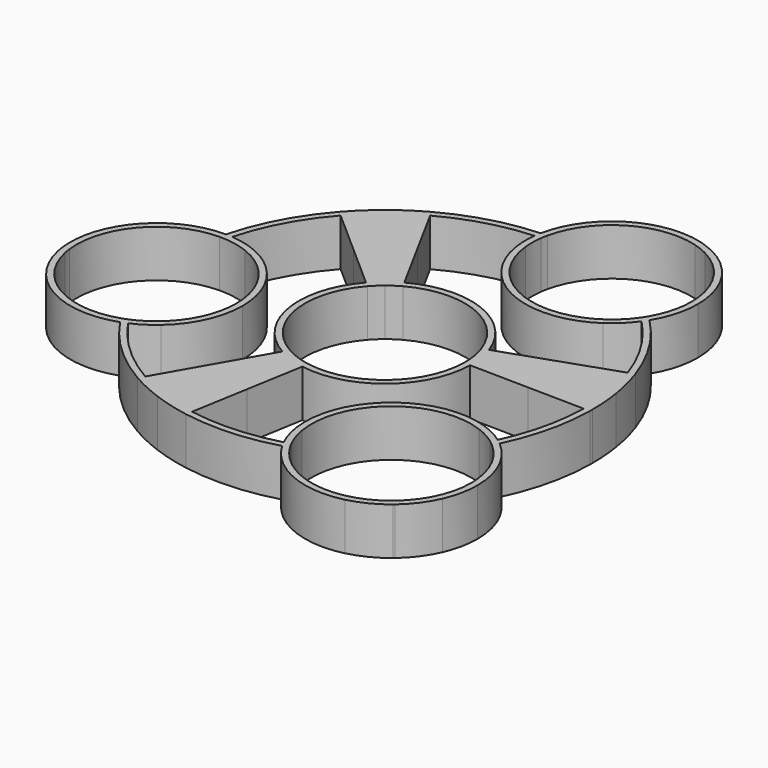
from build123d import *

# Parameters (mm, degrees)
F1_DEPTH = 6.5


with BuildPart() as f1:
    # F0 (on Top) → F1 (new body)
    with BuildSketch(Plane.XY):
        with BuildLine():
            ThreePointArc((-26.781073475, 7.1703144427), (-24.4309789451, 13.1059747239), (-20.7854982474, 18.3467263643))
            Line((-20.7854982474, 18.3467263643), (-21.4415033205, 18.9257620662))
            ThreePointArc((-21.4415033205, 18.9257620662), (-25.2477326534, 13.4340809247), (-27.6758255517, 7.2091063567))
            ThreePointArc((-27.6758255517, 7.2091063567), (-27.2280836806, 7.1981484882), (-26.781073475, 7.1703144427))
        make_face()
        with BuildLine():
            Line((-14.823150963, 13.0839439756), (-12.2007278869, 15.3021280902))
            Line((-12.2007278869, 15.3021280902), (-17.283844225, 21.6773622585))
            ThreePointArc((-17.283844225, 21.6773622585), (-19.107380588, 20.0884870696), (-20.7854982474, 18.3467263643))
            Line((-20.7854982474, 18.3467263643), (-14.823150963, 13.0839439756))
        make_face()
        with BuildLine():
            ThreePointArc((-17.283844225, 21.6773622585), (-15.3287673711, 23.1012596315), (-13.2570293418, 24.3493424698))
            Line((-13.2570293418, 24.3493424698), (-13.6754305943, 25.1178249952))
            ThreePointArc((-13.6754305943, 25.1178249952), (-15.8125541459, 23.8303517769), (-17.8293346125, 22.3615151925))
            Line((-17.8293346125, 22.3615151925), (-17.283844225, 21.6773622585))
        make_face()
        with BuildLine():
            ThreePointArc((-20.7854982474, 18.3467263643), (-19.107380588, 20.0884870696), (-17.283844225, 21.6773622585))
            Line((-17.283844225, 21.6773622585), (-17.8293346125, 22.3615151925))
            ThreePointArc((-17.8293346125, 22.3615151925), (-19.710423077, 20.7224939753), (-21.4415033205, 18.9257620662))
            Line((-21.4415033205, 18.9257620662), (-20.7854982474, 18.3467263643))
        make_face()
        with BuildLine():
            Line((-12.2007278869, 15.3021280902), (-9.5513628913, 17.5431011049))
            Line((-9.5513628913, 17.5431011049), (-13.2570293418, 24.3493424698))
            ThreePointArc((-13.2570293418, 24.3493424698), (-15.3287673711, 23.1012596315), (-17.283844225, 21.6773622585))
            Line((-17.283844225, 21.6773622585), (-12.2007278869, 15.3021280902))
        make_face()
        with BuildLine():
            Line((-13.6754305943, 25.1178249952), (-13.2570293418, 24.3493424698))
            ThreePointArc((-13.2570293418, 24.3493424698), (-7.5859331612, 26.6663256515), (-1.5444446269, 27.6812932587))
            ThreePointArc((-1.5444446269, 27.6812932587), (-1.4815029371, 28.1244724258), (-1.4019033559, 28.5649645792))
            ThreePointArc((-1.4019033559, 28.5649645792), (-7.7331877379, 27.5339852154), (-13.6754305943, 25.1178249952))
        make_face()
        with BuildLine():
            ThreePointArc((-1.4019033559, 28.5649645792), (-1.4815029371, 28.1244724258), (-1.5444446269, 27.6812932587))
            ThreePointArc((-1.5444446269, 27.6812932587), (-1.101162741, 27.7024682347), (-0.657598706, 27.716545052))
            ThreePointArc((-0.657598706, 27.716545052), (-0.5884881802, 28.1573284282), (-0.5015596702, 28.5949466222))
            ThreePointArc((-0.5015596702, 28.5949466222), (-0.9518495698, 28.5835007797), (-1.4019033559, 28.5649645792))
        make_face()
        with BuildLine():
            ThreePointArc((-1.5444446269, 27.6812932587), (-1.6311518993, 26.02148676), (-1.4852666814, 24.3658318239))
            Line((-1.4852666814, 24.3658318239), (-0.6927011651, 25.0362256494))
            ThreePointArc((-0.6927011651, 25.0362256494), (-0.7570998631, 26.3774585974), (-0.657598706, 27.716545052))
            ThreePointArc((-0.657598706, 27.716545052), (-1.101162741, 27.7024682347), (-1.5444446269, 27.6812932587))
        make_face()
        with BuildLine():
            ThreePointArc((-1.4852666814, 24.3658318239), (5.5308559042, 15.3328993065), (16.9174552378, 16.412344357))
            Line((16.9174552378, 16.412344357), (16.7460787783, 17.3623117792))
            ThreePointArc((16.7460787783, 17.3623117792), (5.8114206873, 16.165126567), (-0.6927011651, 25.0362256494))
            Line((-0.6927011651, 25.0362256494), (-1.4852666814, 24.3658318239))
        make_face()
        with BuildLine():
            ThreePointArc((9.0959413558, 38.052982483), (2.279491729, 35.0433355484), (-1.4019033559, 28.5649645792))
            ThreePointArc((-1.4019033559, 28.5649645792), (-0.9518495698, 28.5835007797), (-0.5015596702, 28.5949466222))
            ThreePointArc((-0.5015596702, 28.5949466222), (4.5923936508, 35.6717600182), (13.236217292, 36.818041458))
            ThreePointArc((13.236217292, 36.818041458), (11.1831389735, 37.4927063267), (9.0959413558, 38.052982483))
        make_face()
        with BuildLine():
            ThreePointArc((15.2114507339, 36.0468776952), (17.1785533585, 35.1519975181), (19.0932449199, 34.1498700353))
            ThreePointArc((19.0932449199, 34.1498700353), (17.4627629259, 35.6607957435), (15.5792546456, 36.8413738165))
            ThreePointArc((15.5792546456, 36.8413738165), (14.5472810323, 37.2609261099), (13.5040242417, 37.651578045))
            ThreePointArc((13.5040242417, 37.651578045), (11.3188506664, 38.0594805753), (9.0959413558, 38.052982483))
            ThreePointArc((9.0959413558, 38.052982483), (11.1831389735, 37.4927063267), (13.236217292, 36.818041458))
            ThreePointArc((13.236217292, 36.818041458), (14.2424592098, 36.4801655419), (15.2114507339, 36.0468776952))
        make_face()
        with BuildLine():
            ThreePointArc((19.7435731274, 20.6909123673), (20.0669929814, 20.3773974568), (20.3854350628, 20.0588277755))
            ThreePointArc((20.3854350628, 20.0588277755), (21.6758851196, 23.0270248801), (22.116956926, 26.2334108616))
            ThreePointArc((22.116956926, 26.2334108616), (21.3353033536, 30.4705431508), (19.0932449199, 34.1498700353))
            ThreePointArc((19.0932449199, 34.1498700353), (17.1785533585, 35.1519975181), (15.2114507339, 36.0468776952))
            ThreePointArc((15.2114507339, 36.0468776952), (19.6138412586, 31.9925587201), (21.241956926, 26.2334108616))
            ThreePointArc((21.241956926, 26.2334108616), (20.8607557803, 23.3626773505), (19.7435731274, 20.6909123673))
        make_face()
        with BuildLine():
            ThreePointArc((19.2631686234, 19.9391484338), (19.5798591666, 19.6282556713), (19.891532794, 19.3123335924))
            ThreePointArc((19.891532794, 19.3123335924), (20.1455199263, 19.6809254631), (20.3854350628, 20.0588277755))
            ThreePointArc((20.3854350628, 20.0588277755), (20.0669929814, 20.3773974568), (19.7435731274, 20.6909123673))
            ThreePointArc((19.7435731274, 20.6909123673), (19.5109954735, 20.310158005), (19.2631686234, 19.9391484338))
        make_face()
        with BuildLine():
            Line((16.7460787783, 17.3623117792), (16.9174552378, 16.412344357))
            ThreePointArc((16.9174552378, 16.412344357), (18.5322823801, 17.7312858999), (19.891532794, 19.3123335924))
            ThreePointArc((19.891532794, 19.3123335924), (19.5798591666, 19.6282556713), (19.2631686234, 19.9391484338))
            ThreePointArc((19.2631686234, 19.9391484338), (18.1108207095, 18.546995393), (16.7460787783, 17.3623117792))
        make_face()
        with BuildLine():
            ThreePointArc((19.891532794, 19.3123335924), (23.6122758375, 14.5292716766), (26.2049464807, 9.0520763156))
            Line((26.2049464807, 9.0520763156), (27.0319931853, 9.337766267))
            ThreePointArc((27.0319931853, 9.337766267), (24.3071679836, 15.0693105033), (20.3854350628, 20.0588277755))
            ThreePointArc((20.3854350628, 20.0588277755), (20.1455199263, 19.6809254631), (19.891532794, 19.3123335924))
        make_face()
        with BuildLine():
            ThreePointArc((26.2049464807, 9.0520763156), (26.8941691825, 6.7337188582), (27.3787110178, 4.3641137343))
            Line((27.3787110178, 4.3641137343), (28.242802564, 4.5018482603))
            ThreePointArc((28.242802564, 4.5018482603), (27.7429682447, 6.9462398032), (27.0319931853, 9.337766267))
            Line((27.0319931853, 9.337766267), (26.2049464807, 9.0520763156))
        make_face()
        with BuildLine():
            ThreePointArc((10.3971585726, 3.5915308178), (10.6706167813, 2.6716918809), (10.8628651532, 1.7315197555))
            Line((10.8628651532, 1.7315197555), (11.7269566995, 1.8692542815))
            ThreePointArc((11.7269566995, 1.8692542815), (11.5194158435, 2.884212826), (11.2242052773, 3.8772207693))
            Line((11.2242052773, 3.8772207693), (10.3971585726, 3.5915308178))
        make_face()
        with BuildLine():
            ThreePointArc((10.8628651532, 1.7315197555), (10.9656626951, 0.8684708731), (11, 0))
            ThreePointArc((11, 0), (10.9996272619, -0.0905543976), (10.9985090729, -0.1811026583))
            Line((10.9985090729, -0.1811026583), (11.8733904764, -0.1955085516))
            ThreePointArc((11.8733904764, -0.1955085516), (11.8745976123, -0.0977575884), (11.875, 0))
            ThreePointArc((11.875, 0), (11.8379313186, 0.9375537835), (11.7269566995, 1.8692542815))
            Line((11.7269566995, 1.8692542815), (10.8628651532, 1.7315197555))
        make_face()
        with BuildLine():
            Line((18.7121925516, 6.4638252604), (19.3226443504, 3.0799922442))
            Line((19.3226443504, 3.0799922442), (27.3787110178, 4.3641137343))
            ThreePointArc((27.3787110178, 4.3641137343), (26.8941691825, 6.7337188582), (26.2049464807, 9.0520763156))
            Line((26.2049464807, 9.0520763156), (18.7121925516, 6.4638252604))
        make_face()
        with BuildLine():
            Line((27.3787110178, 4.3641137343), (19.3226443504, 3.0799922442))
            Line((19.3226443504, 3.0799922442), (19.937507425, -0.328293187))
            Line((19.937507425, -0.328293187), (27.7205872748, -0.4564502346))
            ThreePointArc((27.7205872748, -0.4564502346), (27.7234055528, -0.228232851), (27.724345, 0))
            ThreePointArc((27.724345, 0), (27.6378014284, 2.1888896463), (27.3787110178, 4.3641137343))
        make_face()
        with BuildLine():
            ThreePointArc((-8.2469209181, 7.2793059676), (-7.5811055759, 7.9703725287), (-6.8575934427, 8.6007797423))
            Line((-6.8575934427, 8.6007797423), (-7.4030838302, 9.2849326763))
            ThreePointArc((-7.4030838302, 9.2849326763), (-8.1841480649, 8.6043794344), (-8.9029259912, 7.8583416696))
            Line((-8.9029259912, 7.8583416696), (-8.2469209181, 7.2793059676))
        make_face()
        with BuildLine():
            ThreePointArc((-6.8575934427, 8.6007797423), (-6.0818908826, 9.1657298287), (-5.2599014606, 9.6609231766))
            Line((-5.2599014606, 9.6609231766), (-5.6783027132, 10.429405702))
            ThreePointArc((-5.6783027132, 10.429405702), (-6.5656776574, 9.8948219741), (-7.4030838302, 9.2849326763))
            Line((-7.4030838302, 9.2849326763), (-6.8575934427, 8.6007797423))
        make_face()
        with BuildLine():
            Line((28.242802564, 4.5018482603), (27.3787110178, 4.3641137343))
            ThreePointArc((27.3787110178, 4.3641137343), (27.6378014284, 2.1888896463), (27.724345, 0))
            ThreePointArc((27.724345, 0), (27.7234055528, -0.228232851), (27.7205872748, -0.4564502346))
            Line((27.7205872748, -0.4564502346), (28.5954686784, -0.4708561279))
            ThreePointArc((28.5954686784, -0.4708561279), (28.5983759032, -0.2354360417), (28.599345, 0))
            ThreePointArc((28.599345, 0), (28.5100700519, 2.2579725567), (28.242802564, 4.5018482603))
        make_face()
        with BuildLine():
            Line((21.8992099226, -11.2023272908), (21.7212952379, -10.216117429))
            ThreePointArc((21.7212952379, -10.216117429), (10.4933343727, -12.4084945941), (6.3264892784, -23.0626498765))
            Line((6.3264892784, -23.0626498765), (7.2622921826, -23.3990743601))
            ThreePointArc((7.2622921826, -23.3990743601), (11.0598534507, -13.0753866268), (21.8992099226, -11.2023272908))
        make_face()
        with BuildLine():
            ThreePointArc((25.0443576954, -11.8919911413), (23.4488888079, -10.9230603537), (21.7212952379, -10.216117429))
            Line((21.7212952379, -10.216117429), (21.8992099226, -11.2023272908))
            ThreePointArc((21.8992099226, -11.2023272908), (23.3279859873, -11.8468932621), (24.6506429425, -12.6879907078))
            ThreePointArc((24.6506429425, -12.6879907078), (24.8506876349, -12.2915674246), (25.0443576954, -11.8919911413))
        make_face()
        with BuildLine():
            Line((28.5954686784, -0.4708561279), (27.7205872748, -0.4564502346))
            ThreePointArc((27.7205872748, -0.4564502346), (26.9949579252, -6.3175590456), (25.0443576954, -11.8919911413))
            ThreePointArc((25.0443576954, -11.8919911413), (25.4027547988, -12.1606813904), (25.7507635827, -12.4426970282))
            ThreePointArc((25.7507635827, -12.4426970282), (27.8246201031, -6.6115845717), (28.5954686784, -0.4708561279))
        make_face()
        with BuildLine():
            ThreePointArc((25.7507635827, -12.4426970282), (25.4027547988, -12.1606813904), (25.0443576954, -11.8919911413))
            ThreePointArc((25.0443576954, -11.8919911413), (24.8506876349, -12.2915674246), (24.6506429425, -12.6879907078))
            ThreePointArc((24.6506429425, -12.6879907078), (25.0038949257, -12.9610283684), (25.345776084, -13.2481760679))
            ThreePointArc((25.345776084, -13.2481760679), (25.5514440022, -12.8470324912), (25.7507635827, -12.4426970282))
        make_face()
        with BuildLine():
            ThreePointArc((29.9766486544, -21.5260150241), (28.8684695588, -16.5169040637), (25.7507635827, -12.4426970282))
            ThreePointArc((25.7507635827, -12.4426970282), (25.5514440022, -12.8470324912), (25.345776084, -13.2481760679))
            ThreePointArc((25.345776084, -13.2481760679), (28.1187690422, -16.9809848661), (29.1016486544, -21.5260150241))
            ThreePointArc((29.1016486544, -21.5260150241), (28.0971881876, -26.1183117742), (25.2672505742, -29.8719211538))
            ThreePointArc((25.2672505742, -29.8719211538), (27.1840178868, -28.1388485288), (28.9822025111, -26.2830280334))
            ThreePointArc((28.9822025111, -26.2830280334), (29.7253787366, -23.9559376516), (29.9766486544, -21.5260150241))
        make_face()
        with BuildLine():
            ThreePointArc((25.8347613756, -30.5379289518), (27.6485429832, -28.5880567738), (28.9822025111, -26.2830280334))
            ThreePointArc((28.9822025111, -26.2830280334), (27.1840178868, -28.1388485288), (25.2672505742, -29.8719211538))
            ThreePointArc((25.2672505742, -29.8719211538), (25.1812999388, -29.9449542501), (25.0946049837, -30.0171022205))
            ThreePointArc((25.0946049837, -30.0171022205), (23.058409344, -31.6081537506), (20.9216278315, -33.0613235349))
            ThreePointArc((20.9216278315, -33.0613235349), (23.4212711117, -32.1428526847), (25.6533856951, -30.6904513225))
            ThreePointArc((25.6533856951, -30.6904513225), (25.7441864886, -30.6143244583), (25.8347613756, -30.5379289518))
        make_face()
        with BuildLine():
            ThreePointArc((8.7038179293, -27.2427254122), (8.2733393411, -27.3765299221), (7.8408052154, -27.5035326459))
            ThreePointArc((7.8408052154, -27.5035326459), (13.4579566822, -32.4554134461), (20.9216278315, -33.0613235349))
            ThreePointArc((20.9216278315, -33.0613235349), (23.058409344, -31.6081537506), (25.0946049837, -30.0171022205))
            ThreePointArc((25.0946049837, -30.0171022205), (16.2658526735, -32.3717447421), (8.7038179293, -27.2427254122))
        make_face()
        with BuildLine():
            Line((7.2622921826, -23.3990743601), (6.3264892784, -23.0626498765))
            ThreePointArc((6.3264892784, -23.0626498765), (6.7255863069, -24.9320142116), (7.4194440979, -26.7131270157))
            ThreePointArc((7.4194440979, -26.7131270157), (7.8463204406, -26.5908736454), (8.271184066, -26.4617992552))
            ThreePointArc((8.271184066, -26.4617992552), (7.6539002553, -24.9676067181), (7.2622921826, -23.3990743601))
        make_face()
        with BuildLine():
            ThreePointArc((8.271184066, -26.4617992552), (7.8463204406, -26.5908736454), (7.4194440979, -26.7131270157))
            ThreePointArc((7.4194440979, -26.7131270157), (7.6226696917, -27.1123040337), (7.8408052154, -27.5035326459))
            ThreePointArc((7.8408052154, -27.5035326459), (8.2733393411, -27.3765299221), (8.7038179293, -27.2427254122))
            ThreePointArc((8.7038179293, -27.2427254122), (8.479575251, -26.8566532052), (8.271184066, -26.4617992552))
        make_face()
        with BuildLine():
            Line((-4.8549397257, -28.1842526012), (-4.7064023288, -27.3219523973))
            ThreePointArc((-4.7064023288, -27.3219523973), (-7.1719713526, -26.7806298021), (-9.578084352, -26.0172943602))
            Line((-9.578084352, -26.0172943602), (-9.8741103432, -26.8407242704))
            ThreePointArc((-9.8741103432, -26.8407242704), (-7.3950994636, -27.6267087861), (-4.8549397257, -28.1842526012))
        make_face()
        with BuildLine():
            Line((-9.8741103432, -26.8407242704), (-9.578084352, -26.0172943602))
            ThreePointArc((-9.578084352, -26.0172943602), (-11.7134205543, -25.128372104), (-13.7672296137, -24.0645526541))
            Line((-13.7672296137, -24.0645526541), (-14.2017331488, -24.8240470109))
            ThreePointArc((-14.2017331488, -24.8240470109), (-12.0800789217, -25.9228514572), (-9.8741103432, -26.8407242704))
        make_face()
        with BuildLine():
            Line((-9.578084352, -26.0172943602), (-6.8171572313, -18.3374620522))
            Line((-6.8171572313, -18.3374620522), (-9.8641156889, -17.2420696134))
            Line((-9.8641156889, -17.2420696134), (-13.7672296137, -24.0645526541))
            ThreePointArc((-13.7672296137, -24.0645526541), (-11.7134205543, -25.128372104), (-9.578084352, -26.0172943602))
        make_face()
        with BuildLine():
            Line((-4.7064023288, -27.3219523973), (-3.3721016031, -19.5759718445))
            Line((-3.3721016031, -19.5759718445), (-6.8171572313, -18.3374620522))
            Line((-6.8171572313, -18.3374620522), (-9.578084352, -26.0172943602))
            ThreePointArc((-9.578084352, -26.0172943602), (-7.1719713526, -26.7806298021), (-4.7064023288, -27.3219523973))
        make_face()
        with BuildLine():
            Line((-2.0158646725, -11.7026456249), (-1.8673272756, -10.840345421))
            ThreePointArc((-1.8673272756, -10.840345421), (-2.8624794288, -10.6210268581), (-3.8330656312, -10.3105580774))
            Line((-3.8330656312, -10.3105580774), (-4.1379685791, -11.1307161063))
            ThreePointArc((-4.1379685791, -11.1307161063), (-3.0901766561, -11.4658812672), (-2.0158646725, -11.7026456249))
        make_face()
        with BuildLine():
            Line((-4.1379685791, -11.1307161063), (-3.8330656312, -10.3105580774))
            ThreePointArc((-3.8330656312, -10.3105580774), (-4.6633138932, -9.9626052584), (-5.4623301561, -9.5479290564))
            Line((-5.4623301561, -9.5479290564), (-5.8968336912, -10.3074234132))
            ThreePointArc((-5.8968336912, -10.3074234132), (-5.0342593165, -10.7550852221), (-4.1379685791, -11.1307161063))
        make_face()
        with BuildLine():
            ThreePointArc((-26.9969588206, 6.3090031001), (-26.8924646268, 6.7405231233), (-26.781073475, 7.1703144427))
            ThreePointArc((-26.781073475, 7.1703144427), (-27.2280836806, 7.1981484882), (-27.6758255517, 7.2091063567))
            ThreePointArc((-27.6758255517, 7.2091063567), (-27.7860012023, 6.7720507689), (-27.8892753434, 6.3333131336))
            ThreePointArc((-27.8892753434, 6.3333131336), (-27.4428703862, 6.3302132568), (-26.9969588206, 6.3090031001))
        make_face()
        with BuildLine():
            ThreePointArc((-27.8892753434, 6.3333131336), (-27.7860012023, 6.7720507689), (-27.6758255517, 7.2091063567))
            ThreePointArc((-27.6758255517, 7.2091063567), (-34.7894781068, 4.8922680482), (-39.1060268855, -1.2183128624))
            ThreePointArc((-39.1060268855, -1.2183128624), (-38.9561045696, -3.6314655119), (-38.657414273, -6.0307500963))
            ThreePointArc((-38.657414273, -6.0307500963), (-36.0375243609, 2.5586672539), (-27.8892753434, 6.3333131336))
        make_face()
        with BuildLine():
            Line((-23.7087546087, 5.5680305309), (-22.958189684, 6.2028980349))
            ThreePointArc((-22.958189684, 6.2028980349), (-24.8291940744, 6.8464008025), (-26.781073475, 7.1703144427))
            ThreePointArc((-26.781073475, 7.1703144427), (-26.8924646268, 6.7405231233), (-26.9969588206, 6.3090031001))
            ThreePointArc((-26.9969588206, 6.3090031001), (-25.3243067639, 6.0652125559), (-23.7087546087, 5.5680305309))
        make_face()
        with BuildLine():
            ThreePointArc((-15.8674403017, -4.6657067986), (-17.7968734228, 1.8228465423), (-22.958189684, 6.2028980349))
            Line((-22.958189684, 6.2028980349), (-23.7087546087, 5.5680305309))
            ThreePointArc((-23.7087546087, 5.5680305309), (-18.6492961088, 1.5241824321), (-16.7424403017, -4.6657067986))
            ThreePointArc((-16.7424403017, -4.6657067986), (-17.8352668848, -9.4456560546), (-20.8966066451, -13.2758497444))
            Line((-20.8966066451, -13.2758497444), (-19.9416967235, -13.6191432689))
            ThreePointArc((-19.9416967235, -13.6191432689), (-16.9338914862, -9.5841310895), (-15.8674403017, -4.6657067986))
        make_face()
        with BuildLine():
            ThreePointArc((-37.3532201859, -11.6405569775), (-31.2753235203, -16.0030063521), (-23.7951580907, -15.8654651955))
            ThreePointArc((-23.7951580907, -15.8654651955), (-24.0422365438, -15.4884923863), (-24.2833433668, -15.1076725329))
            ThreePointArc((-24.2833433668, -15.1076725329), (-33.2180481607, -14.2060274733), (-38.5034678662, -6.9461203041))
            ThreePointArc((-38.5034678662, -6.9461203041), (-38.0009041271, -9.3111175765), (-37.3532201859, -11.6405569775))
        make_face()
        with BuildLine():
            ThreePointArc((-23.7951580907, -15.8654651955), (-23.3756320677, -15.708650738), (-22.9623177716, -15.5361278392))
            ThreePointArc((-22.9623177716, -15.5361278392), (-23.2081686665, -15.1664172707), (-23.4480674938, -14.7928170571))
            ThreePointArc((-23.4480674938, -14.7928170571), (-23.862510308, -14.9587210921), (-24.2833433668, -15.1076725329))
            ThreePointArc((-24.2833433668, -15.1076725329), (-24.0422365438, -15.4884923863), (-23.7951580907, -15.8654651955))
        make_face()
        with BuildLine():
            ThreePointArc((-22.9623177716, -15.5361278392), (-21.3794020754, -14.6920406017), (-19.9416967235, -13.6191432689))
            Line((-19.9416967235, -13.6191432689), (-20.8966066451, -13.2758497444))
            ThreePointArc((-20.8966066451, -13.2758497444), (-22.1209327215, -14.1207928652), (-23.4480674938, -14.7928170571))
            ThreePointArc((-23.4480674938, -14.7928170571), (-23.2081686665, -15.1664172707), (-22.9623177716, -15.5361278392))
        make_face()
        with BuildLine():
            Line((-14.2017331488, -24.8240470109), (-13.7672296137, -24.0645526541))
            ThreePointArc((-13.7672296137, -24.0645526541), (-18.8533397635, -20.3270973196), (-22.9623177716, -15.5361278392))
            ThreePointArc((-22.9623177716, -15.5361278392), (-23.3756320677, -15.708650738), (-23.7951580907, -15.8654651955))
            ThreePointArc((-23.7951580907, -15.8654651955), (-19.519348939, -20.9025728423), (-14.2017331488, -24.8240470109))
        make_face()
        with BuildLine():
            ThreePointArc((7.4194440979, -26.7131270157), (1.3902575289, -27.6894653195), (-4.7064023288, -27.3219523973))
            Line((-4.7064023288, -27.3219523973), (-4.8549397257, -28.1842526012))
            ThreePointArc((-4.8549397257, -28.1842526012), (1.5312390718, -28.5583235036), (7.8408052154, -27.5035326459))
            ThreePointArc((7.8408052154, -27.5035326459), (7.6226696917, -27.1123040337), (7.4194440979, -26.7131270157))
        make_face()
        with BuildLine():
            ThreePointArc((-38.657414273, -6.0307500963), (-38.9561045696, -3.6314655119), (-39.1060268855, -1.2183128624))
            ThreePointArc((-39.1060268855, -1.2183128624), (-39.5750709065, -3.6634703147), (-39.5239734313, -6.1526843088))
            ThreePointArc((-39.5239734313, -6.1526843088), (-39.4460378427, -6.634010741), (-39.3622408419, -7.1143514044))
            ThreePointArc((-39.3622408419, -7.1143514044), (-38.5962884908, -9.4833415386), (-37.3532201859, -11.6405569775))
            ThreePointArc((-37.3532201859, -11.6405569775), (-38.0009041271, -9.3111175765), (-38.5034678662, -6.9461203041))
            ThreePointArc((-38.5034678662, -6.9461203041), (-38.5901007084, -6.4900597524), (-38.657414273, -6.0307500963))
        make_face()
        with BuildLine():
            ThreePointArc((-5.2599014606, 9.6609231766), (3.9758311785, 10.256352492), (10.3971585726, 3.5915308178))
            Line((10.3971585726, 3.5915308178), (11.2242052773, 3.8772207693))
            ThreePointArc((11.2242052773, 3.8772207693), (4.2920904768, 11.0721987129), (-5.6783027132, 10.429405702))
            Line((-5.6783027132, 10.429405702), (-5.2599014606, 9.6609231766))
        make_face()
        with BuildLine():
            ThreePointArc((-5.4623301561, -9.5479290564), (-10.8524122154, -1.7958700142), (-8.2469209181, 7.2793059676))
            Line((-8.2469209181, 7.2793059676), (-8.9029259912, 7.8583416696))
            ThreePointArc((-8.9029259912, 7.8583416696), (-11.715672278, -1.9387233108), (-5.8968336912, -10.3074234132))
            Line((-5.8968336912, -10.3074234132), (-5.4623301561, -9.5479290564))
        make_face()
        with BuildLine():
            Line((11.8733904764, -0.1955085516), (10.9985090729, -0.1811026583))
            ThreePointArc((10.9985090729, -0.1811026583), (7.0177976832, -8.4705676125), (-1.8673272756, -10.840345421))
            Line((-1.8673272756, -10.840345421), (-2.0158646725, -11.7026456249))
            ThreePointArc((-2.0158646725, -11.7026456249), (7.5760315898, -9.1443627635), (11.8733904764, -0.1955085516))
        make_face()
        with BuildLine():
            ThreePointArc((11.2242052773, 3.8772207693), (11.5194158435, 2.884212826), (11.7269566995, 1.8692542815))
            Line((11.7269566995, 1.8692542815), (19.3226443504, 3.0799922442))
            Line((19.3226443504, 3.0799922442), (18.7121925516, 6.4638252604))
            Line((18.7121925516, 6.4638252604), (11.2242052773, 3.8772207693))
        make_face()
        with BuildLine():
            Line((19.3226443504, 3.0799922442), (11.7269566995, 1.8692542815))
            ThreePointArc((11.7269566995, 1.8692542815), (11.8379313186, 0.9375537835), (11.875, 0))
            ThreePointArc((11.875, 0), (11.8745976123, -0.0977575884), (11.8733904764, -0.1955085516))
            Line((11.8733904764, -0.1955085516), (19.937507425, -0.328293187))
            Line((19.937507425, -0.328293187), (19.3226443504, 3.0799922442))
        make_face()
        with BuildLine():
            ThreePointArc((-8.9029259912, 7.8583416696), (-8.1841480649, 8.6043794344), (-7.4030838302, 9.2849326763))
            Line((-7.4030838302, 9.2849326763), (-12.2007278869, 15.3021280902))
            Line((-12.2007278869, 15.3021280902), (-14.823150963, 13.0839439756))
            Line((-14.823150963, 13.0839439756), (-8.9029259912, 7.8583416696))
        make_face()
        with BuildLine():
            ThreePointArc((-7.4030838302, 9.2849326763), (-6.5656776574, 9.8948219741), (-5.6783027132, 10.429405702))
            Line((-5.6783027132, 10.429405702), (-9.5513628913, 17.5431011049))
            Line((-9.5513628913, 17.5431011049), (-12.2007278869, 15.3021280902))
            Line((-12.2007278869, 15.3021280902), (-7.4030838302, 9.2849326763))
        make_face()
        with BuildLine():
            Line((-6.8171572313, -18.3374620522), (-4.1379685791, -11.1307161063))
            ThreePointArc((-4.1379685791, -11.1307161063), (-5.0342593165, -10.7550852221), (-5.8968336912, -10.3074234132))
            Line((-5.8968336912, -10.3074234132), (-9.8641156889, -17.2420696134))
            Line((-9.8641156889, -17.2420696134), (-6.8171572313, -18.3374620522))
        make_face()
        with BuildLine():
            Line((-3.3721016031, -19.5759718445), (-2.0158646725, -11.7026456249))
            ThreePointArc((-2.0158646725, -11.7026456249), (-3.0901766561, -11.4658812672), (-4.1379685791, -11.1307161063))
            Line((-4.1379685791, -11.1307161063), (-6.8171572313, -18.3374620522))
            Line((-6.8171572313, -18.3374620522), (-3.3721016031, -19.5759718445))
        make_face()
    extrude(amount=F1_DEPTH)


solid = f1.part
